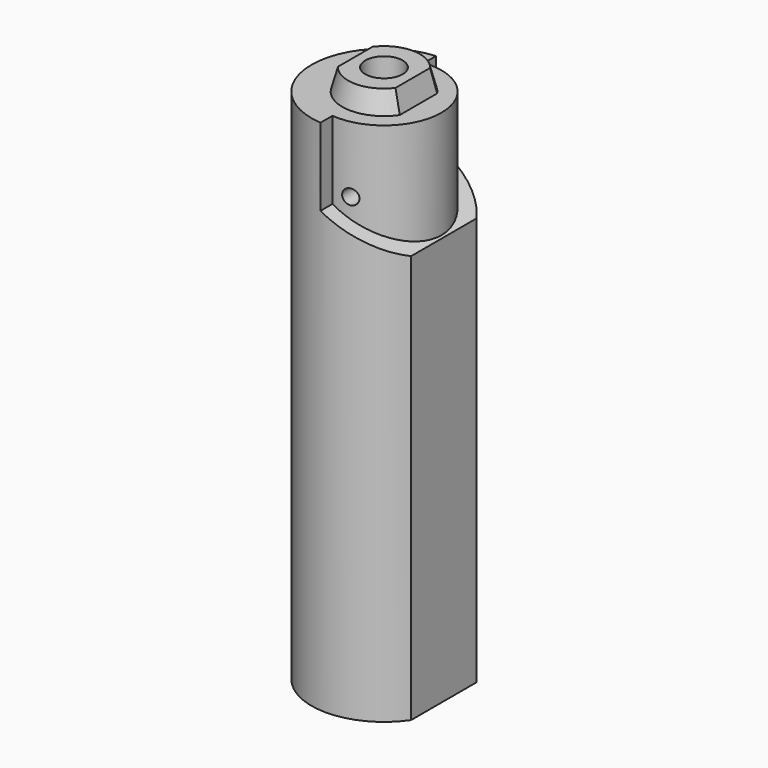
from build123d import *

# Parameters (mm, degrees)
F1_DEPTH  = 13.5
F3_R      = 12.6
F4_DEPTH  = 6.5
F6_DEPTH  = 15
F7_DEPTH  = 6.5
F8_DEPTH  = 70
F10_DEPTH = 90
F12_DEPTH = 15
F17_R     = 3.25
F18_DEPTH = 93.701
F20_R     = 7
F21_DEPTH = 90
F22_R     = 7
F23_DEPTH = 0.16
F24_R     = 7
F25_DEPTH = 0.16
F26_R     = 1.3
F27_DEPTH = 12.5


with BuildPart() as f1:
    # F0 (on Top) → F1 (new body)
    with BuildSketch(Plane.XY):
        with BuildLine():
            ThreePointArc((-1, -9.9498743711), (-10, 0), (-1, 9.9498743711))
            Line((-1, 9.9498743711), (-1, 12.5602547745))
            ThreePointArc((-1, 12.5602547745), (-12.6, 0), (-1, -12.5602547745))
            Line((-1, -12.5602547745), (-1, -9.9498743711))
        make_face()
        with BuildLine():
            ThreePointArc((-1, -9.9498743711), (6.7082039325, -7.4161984871), (10, 0))
            ThreePointArc((10, 0), (6.7082039325, 7.4161984871), (-1, 9.9498743711))
            ThreePointArc((-1, 9.9498743711), (-10, 0), (-1, -9.9498743711))
        make_face()
    extrude(amount=-F1_DEPTH)

    # F3 (on offset) → F4 (join)
    with BuildSketch(Plane.XY.offset(-20)):
        Circle(F3_R)
    extrude(amount=F4_DEPTH)

    # F5 (on Front) → F6 (cut, symmetric)
    with BuildSketch(Plane.XZ):
        Polygon((12.6, -13.5), (-1, -13.5), (12.6, -20), align=None)
    extrude(amount=F6_DEPTH, both=True, mode=Mode.SUBTRACT)

    # F7 (add): a face of the model
    f7_faces = [f1.faces().sort_by_distance(p)[0] for p in [
        (3.7091534646, 0, -13.5),
    ]]
    extrude(f7_faces, amount=F7_DEPTH)

    # F8 (add): a face of the model
    f8_faces = [f1.faces().sort_by_distance(p)[0] for p in [
        (0, 0, -20),
    ]]
    extrude(f8_faces, amount=F8_DEPTH)

    # F9 (on face) → F10 (cut)
    with BuildSketch(Plane(origin=(0, 0, -90), x_dir=(1, 0, 0), z_dir=(0, 0, -1))):
        with BuildLine():
            Line((10.4, 7.1133676975), (10.4, 0))
            Line((10.4, 0), (10.4, -7.1133676975))
            ThreePointArc((10.4, -7.1133676975), (12.0374415886, -3.7229020938), (12.6, 0))
            ThreePointArc((12.6, 0), (12.0374415886, 3.7229020938), (10.4, 7.1133676975))
        make_face()
    extrude(amount=-F10_DEPTH, mode=Mode.SUBTRACT)

    # F11 (on face) → F12 (cut)
    with BuildSketch(Plane(origin=(0, 0, -90), x_dir=(1, 0, 0), z_dir=(0, 0, -1))):
        with BuildLine():
            ThreePointArc((8.6, 6.5329931884), (-10.8, 0), (8.6, -6.5329931884))
            Line((8.6, -6.5329931884), (8.6, 6.5329931884))
        make_face()
    extrude(amount=-F12_DEPTH, mode=Mode.SUBTRACT)

    # F13 (on face) → F16 section 0
    with BuildSketch(Plane.XY):
        with BuildLine():
            Line((6, 0), (6, 4.069705149))
            ThreePointArc((6, 4.069705149), (0, 7.25), (-6, 4.069705149))
            Line((-6, 4.069705149), (-6, 0))
            Line((-6, 0), (-6, -4.069705149))
            ThreePointArc((-6, -4.069705149), (0, -7.25), (6, -4.069705149))
            Line((6, -4.069705149), (6, 0))
        make_face()
    # F15 (on offset) → F16 section 1
    with BuildSketch(Plane.XY.offset(3.7)):
        with BuildLine():
            Line((5, 0), (5, 3.75))
            ThreePointArc((5, 3.75), (0, 6.25), (-5, 3.75))
            Line((-5, 3.75), (-5, 0))
            Line((-5, 0), (-5, -3.75))
            ThreePointArc((-5, -3.75), (0, -6.25), (5, -3.75))
            Line((5, -3.75), (5, 0))
        make_face()
    loft()

    # F17 (on offset) → F18 (cut, through all)
    with BuildSketch(Plane.XY.offset(3.7)):
        Circle(F17_R)
    extrude(amount=-F18_DEPTH, mode=Mode.SUBTRACT)

    # F20 (on offset) → F21 (cut)
    with BuildSketch(Plane.XY.offset(-3)):
        Circle(F20_R)
    extrude(amount=-F21_DEPTH, mode=Mode.SUBTRACT)

    # F22 (on face) → F23 (join)
    with BuildSketch(Plane(origin=(0, 0, -75), x_dir=(1, 0, 0), z_dir=(0, 0, -1))):
        Circle(F22_R)
    extrude(amount=-F23_DEPTH)

    # F24 (on offset) → F25 (join)
    with BuildSketch(Plane.XY.offset(-3)):
        Circle(F24_R)
    extrude(amount=F25_DEPTH)

    # F26 (on Front) → F27 (cut, symmetric)
    with BuildSketch(Plane.XZ):
        with Locations((2, -11.5)):
            Circle(F26_R)
    extrude(amount=F27_DEPTH, both=True, mode=Mode.SUBTRACT)


solid = f1.part
